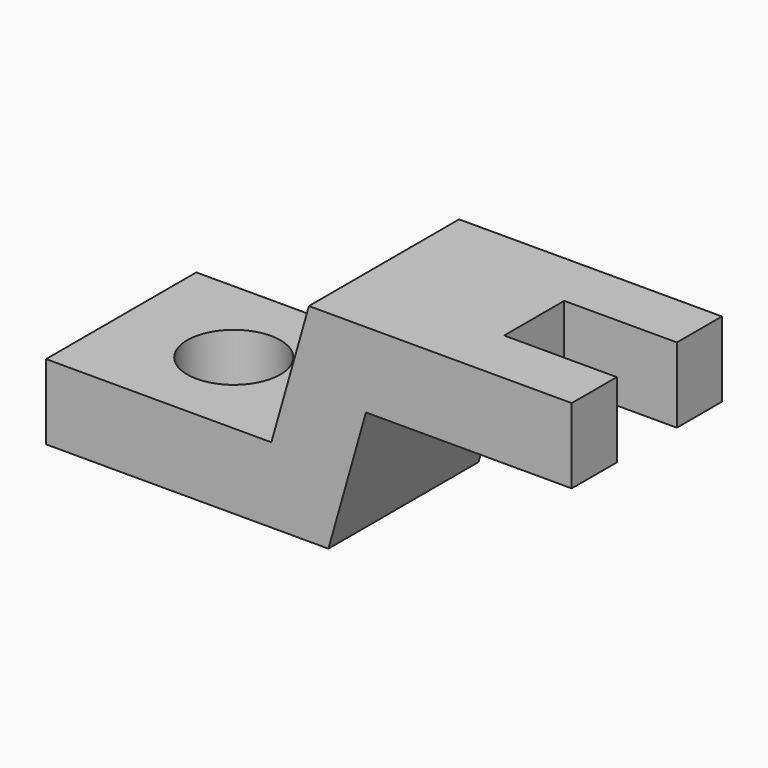
from build123d import *

# Parameters (mm, degrees)
F1_DEPTH = 15.875
F2_R     = 7.874
F3_DEPTH = 12.701
F5_DEPTH = 35.053


with BuildPart() as f1:
    # F0 (on Front) → F1 (new body, symmetric)
    with BuildSketch(Plane.XZ):
        Polygon((0, 12.7), (0, 0), (38.1, 0), (47.752, 0), (54.102, 22.352), (88.9, 22.352), (88.9, 35.052), (44.45, 35.052), (38.1, 12.7), align=None)
    extrude(amount=F1_DEPTH, both=True)

    # F2 (on face) → F3 (cut, through all)
    with BuildSketch(Plane.XY.offset(12.7)):
        with Locations((19.05, 0)):
            Circle(F2_R)
    extrude(amount=-F3_DEPTH, mode=Mode.SUBTRACT)

    # F4 (on face) → F5 (cut, through all)
    with BuildSketch(Plane.XY.offset(35.052)):
        Polygon((69.85, -6.35), (88.9, -6.35), (88.9, 6.35), (69.85, 6.35), (69.85, 0), align=None)
    extrude(amount=-F5_DEPTH, mode=Mode.SUBTRACT)


solid = f1.part
